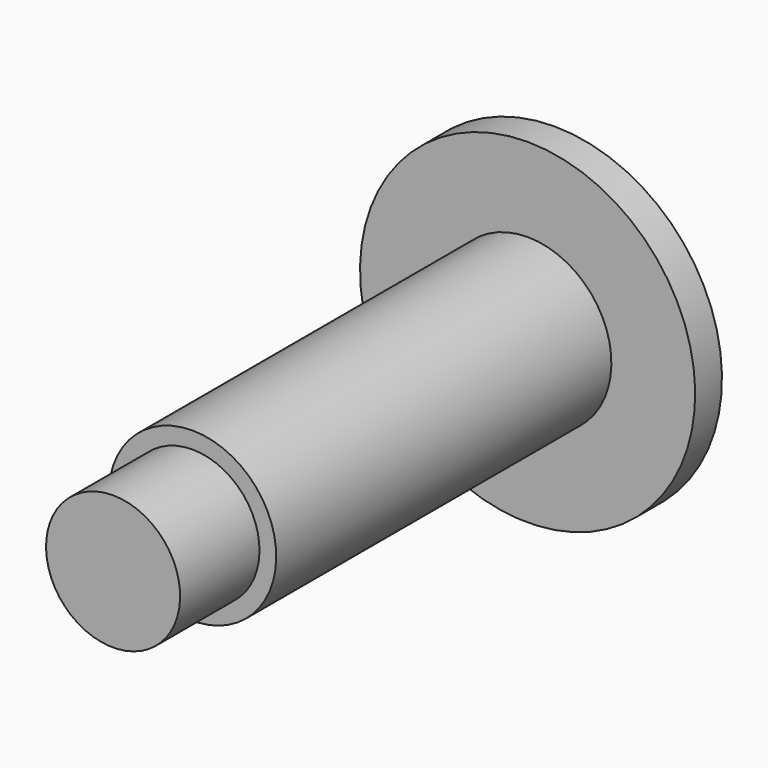
from build123d import *

# Parameters (mm, degrees)
F0_W = 18.796
F0_H = 12.7


with BuildPart() as f1:
    # F0 (on Right) → F1 (revolve)
    with BuildSketch(Plane.YZ):
        with Locations((9.398, 6.35)):
            Rectangle(F0_W, F0_H)
        Polygon((18.796, 12.7), (18.796, 0), (98.171, 0), (98.171, 15.875), (18.796, 15.875), align=None)
        Polygon((98.171, 15.875), (98.171, 0), (104.521, 0), (104.521, 31.75), (98.171, 31.75), align=None)
    revolve(axis=Axis((0, 58.4835, 0), (0, 1, 0)))


solid = f1.part
